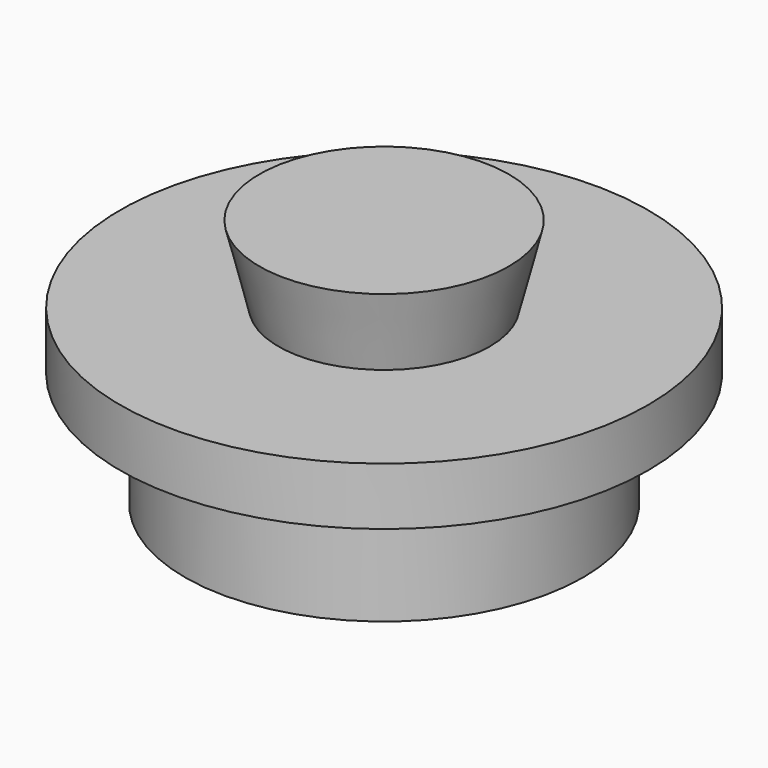
from build123d import *

# Parameters (mm, degrees)
CYLINDER001_R     = 27.5
CYLINDER001_DEPTH = 6
CYLINDER_R        = 20.75
CYLINDER_DEPTH    = 12


with BuildPart() as cylinder001:
    # Cylinder001 → Cylinder001 (new body)
    with BuildSketch(Plane.XY.offset(12)):
        Circle(CYLINDER001_R)
    extrude(amount=CYLINDER001_DEPTH)


with BuildPart() as cone:
    # Cone → Cone (revolve)
    with BuildSketch(Plane(origin=(0, 0, 18), x_dir=(1, 0, 0), z_dir=(0, -1, 0))):
        Polygon((0, 0), (11, 0), (13, 8), (0, 8), align=None)
    revolve(axis=Axis((0, 0, 18), (0, 0, 1)))


with BuildPart() as viewfinder_port:
    # Cylinder → Cylinder (new body)
    with BuildSketch(Plane.XY):
        Circle(CYLINDER_R)
    extrude(amount=CYLINDER_DEPTH)

    # Fusion: union Cylinder001, Cone
    add(cylinder001.part)
    add(cone.part)


solid = viewfinder_port.part
